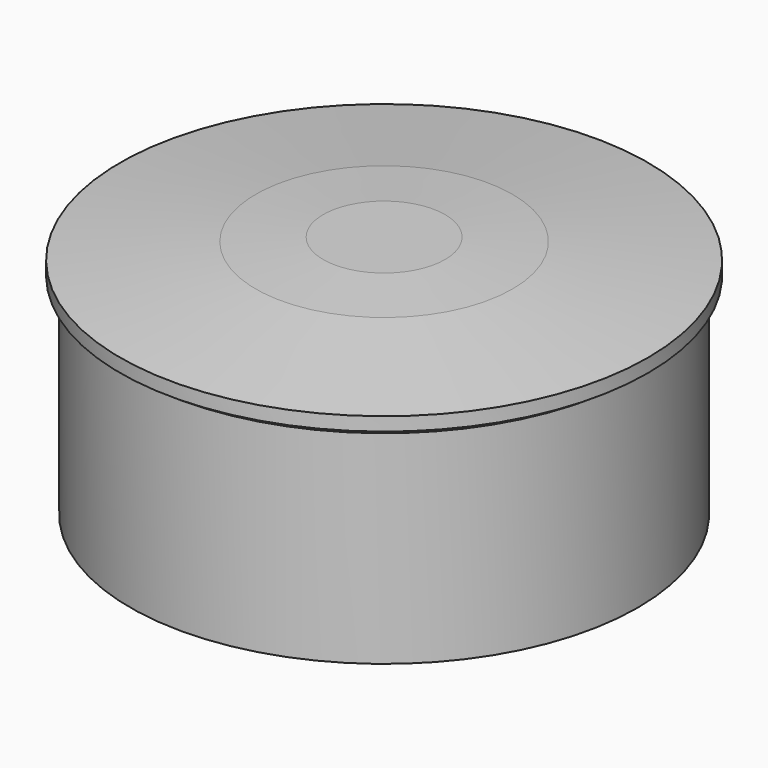
from build123d import *

# Parameters (mm, degrees)
F0_R     = 37.5
F0_R_2   = 35
F1_DEPTH = 30
F2_R     = 36.5
F2_R_2   = 35
F3_DEPTH = 1
F4_R     = 39
F4_R_2   = 36.5
F5_DEPTH = 5
F6_SIZE2 = 3
F6_SIZE  = 25
F7_SIZE  = 5


with BuildPart() as f1:
    # F0 (on Top) → F1 (new body)
    with BuildSketch(Plane.XY):
        Circle(F0_R)
        Circle(F0_R_2, mode=Mode.SUBTRACT)
    extrude(amount=F1_DEPTH)

    # F2 (on face) → F3 (join)
    with BuildSketch(Plane.XY.offset(30)):
        Circle(F2_R)
        Circle(F2_R_2, mode=Mode.SUBTRACT)
        Circle(F2_R_2)
    extrude(amount=F3_DEPTH)

    # F4 (on face) → F5 (join)
    with BuildSketch(Plane.XY.offset(31)):
        Circle(F4_R)
        Circle(F4_R_2, mode=Mode.SUBTRACT)
        Circle(F4_R_2)
    extrude(amount=F5_DEPTH)

    # F6
    f6_edges = [f1.edges().sort_by_distance(p)[0] for p in [
        (-39, 0, 36),
    ]]
    f6_side = f1.faces().sort_by_distance((0, 0, 36))[0]
    chamfer(f6_edges, length=F6_SIZE, length2=F6_SIZE2, reference=f6_side)

    # F7
    f7_edges = [f1.edges().sort_by_distance(p)[0] for p in [
        (-14, 0, 36),
    ]]
    chamfer(f7_edges, length=F7_SIZE)


solid = f1.part
